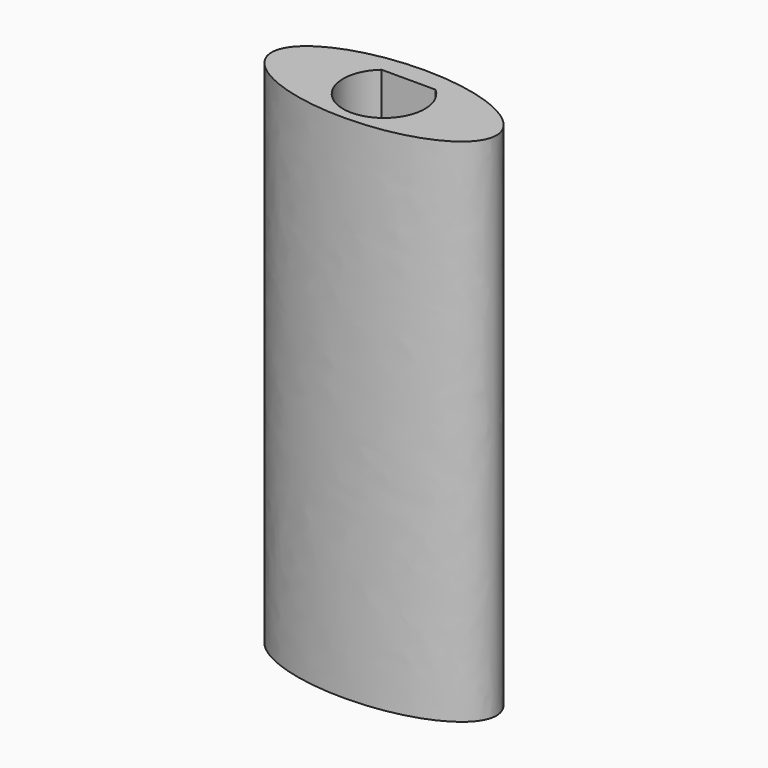
from build123d import *

# Parameters (mm, degrees)
F1_DEPTH = 25
F4_DEPTH = 10
F6_DEPTH = 8


with BuildPart() as f1:
    # F0 (on Top) → F1 (new body)
    with BuildSketch(Plane.XY):
        with BuildLine():
            add(Edge.make_bspline(
                [(5.5, 0), (5.5, 4.3301270189), (-2.75, 2.1650635095), (-11, 0), (-2.75, -2.1650635095), (5.5, -4.3301270189), (5.5, 0)],
                knots=[0, 0, 0, 2.0943951024, 2.0943951024, 4.1887902048, 4.1887902048, 6.2831853072, 6.2831853072, 6.2831853072], degree=2, weights=[1, 0.5, 1, 0.5, 1, 0.5, 1]))
        make_face()
    extrude(amount=F1_DEPTH)

    # F3 (on face) → F4 (cut)
    with BuildSketch(Plane.XY.offset(25)):
        with BuildLine():
            Line((1.3228756555, 1.5), (0, 1.5))
            Line((0, 1.5), (0, 0))
            Line((0, 0), (0, -1.5))
            Line((0, -1.5), (1.3228756555, -1.5))
            ThreePointArc((1.3228756555, -1.5), (2, 0), (1.3228756555, 1.5))
        make_face()
        with BuildLine():
            Line((0, 1.5), (-1.3228756555, 1.5))
            ThreePointArc((-1.3228756555, 1.5), (-2, 0), (-1.3228756555, -1.5))
            Line((-1.3228756555, -1.5), (0, -1.5))
            Line((0, -1.5), (0, 0))
            Line((0, 0), (0, 1.5))
        make_face()
        with BuildLine():
            Line((0, -1.5), (-1.3228756555, -1.5))
            ThreePointArc((-1.3228756555, -1.5), (0, -2), (1.3228756555, -1.5))
            Line((1.3228756555, -1.5), (0, -1.5))
        make_face()
    extrude(amount=-F4_DEPTH, mode=Mode.SUBTRACT)

    # F5 (on face) → F6 (cut)
    with BuildSketch(Plane(origin=(0, 0, 0), x_dir=(1, 0, 0), z_dir=(0, 0, -1))):
        with BuildLine():
            Line((0, 1), (-1.7320508076, 1))
            ThreePointArc((-1.7320508076, 1), (-2, 0), (-1.7320508076, -1))
            Line((-1.7320508076, -1), (0, -1))
            Line((0, -1), (0, 0))
            Line((0, 0), (0, 1))
        make_face()
        with BuildLine():
            Line((1.7320508076, 1), (0, 1))
            Line((0, 1), (0, 0))
            Line((0, 0), (0, -1))
            Line((0, -1), (1.7320508076, -1))
            ThreePointArc((1.7320508076, -1), (2, 0), (1.7320508076, 1))
        make_face()
    extrude(amount=-F6_DEPTH, mode=Mode.SUBTRACT)


solid = f1.part
